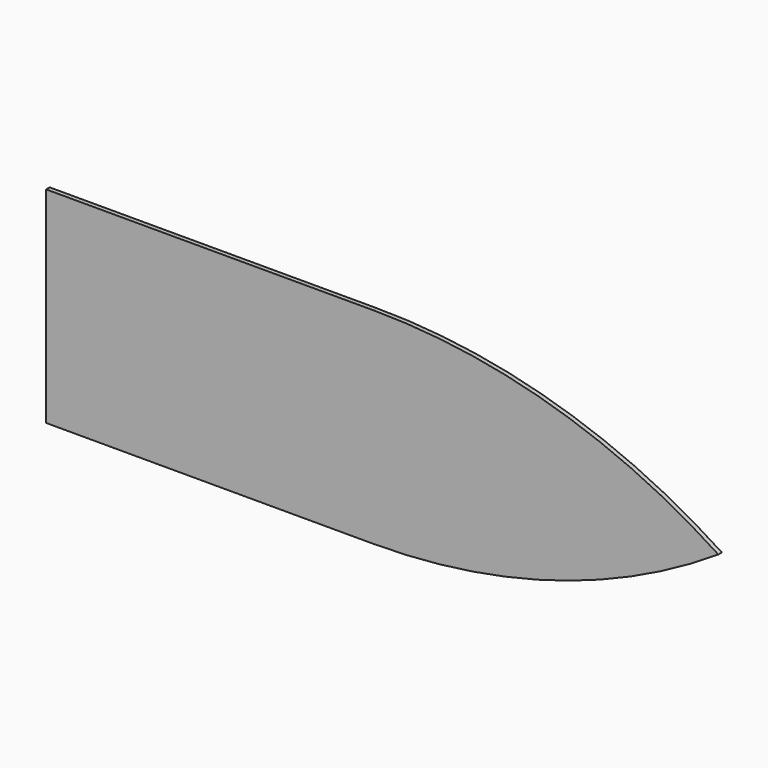
from build123d import *

# Parameters (mm, degrees)
F1_DEPTH = 3.175


with BuildPart() as f1:
    # F0 (on Front) → F1 (new body)
    with BuildSketch(Plane.XZ):
        with BuildLine():
            Line((-232.119275, 112.940714), (-232.119275, 39.1325))
            Line((-232.119275, 39.1325), (250.480725, 39.1325))
            ThreePointArc((250.480725, 39.1325), (131.899672, 94.096964), (2.564945, 112.940714))
            Line((2.564945, 112.940714), (-232.119275, 112.940714))
        make_face()
    extrude(amount=F1_DEPTH)

    # F2: F1 across face


with BuildPart() as f1_1:
    add(f1.part)
    add(f1.part.mirror(Plane(origin=(9.180725, -1.5875, 39.1325), x_dir=(1, 0, 0), z_dir=(0, 0, -1))))


solid = f1_1.part
